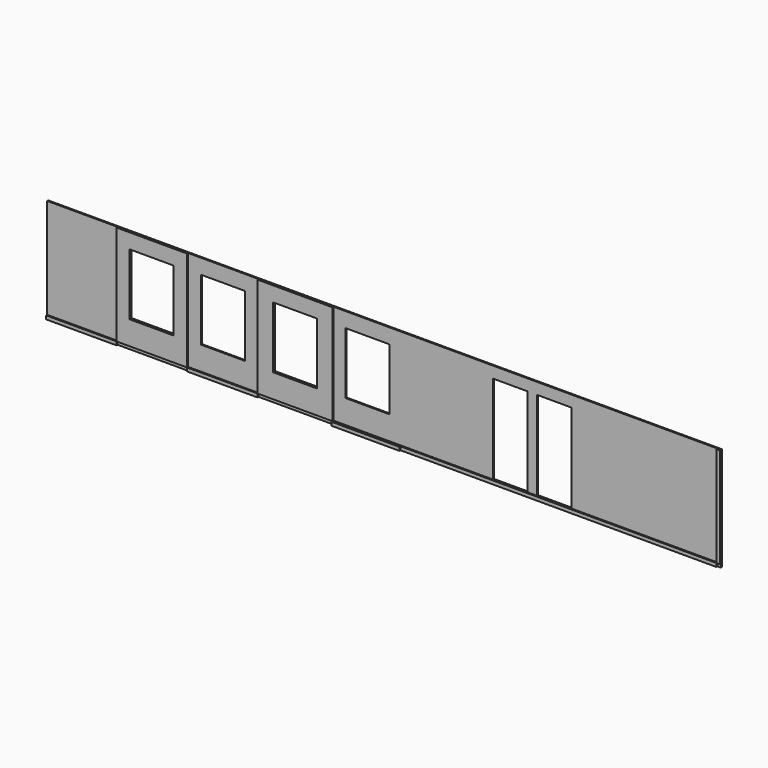
from build123d import *

# Parameters (mm, degrees)
F0_W     = 1654.4544
F0_H     = 2355.7992
F0_H_2   = 82.6008
F0_W_2   = 1036.32
F0_H_3   = 1447.8
F0_W_3   = 1764.4872
F0_W_4   = 1599.5904
F0_W_5   = 82.6008
F1_DEPTH = 30.48
F2_DEPTH = 60.96
F3_DEPTH = 91.44


with BuildPart() as f1:
    # F0 (on Front) → F1 (new body)
    with BuildSketch(Plane.XZ):
        with Locations((827.2272, 1260.5004)):
            Rectangle(F0_W, F0_H)
        with Locations((2481.6816, 41.3004)):
            Rectangle(F0_W, F0_H_2)
        with Locations((4136.136, 1260.5004)):
            Rectangle(F0_W, F0_H)
        with Locations((4136.136, 1363.98)):
            Rectangle(F0_W_2, F0_H_3, mode=Mode.SUBTRACT)
        with Locations((5845.6068, 41.3004)):
            Rectangle(F0_W_3, F0_H_2)
        with Locations((7527.6456, 1260.5004)):
            Rectangle(F0_W_4, F0_H)
        with Locations((7527.6456, 1363.98)):
            Rectangle(F0_W_2, F0_H_3, mode=Mode.SUBTRACT)
        Polygon((8327.4408, 2438.4), (8327.4408, 82.6008), (10473.8424, 82.6008), (10473.8424, 2170.4808), (11286.744, 2170.4808), (11286.744, 82.6008), (11515.344, 82.6008), (11515.344, 2170.4808), (12328.2456, 2170.4808), (12328.2456, 82.6008), (15751.7592, 82.6008), (15751.7592, 2438.4), align=None)
        with Locations((15793.0596, 41.3004)):
            Rectangle(F0_W_5, F0_H_2)
    extrude(amount=F1_DEPTH)


with BuildPart() as f2:
    # F0 (on Front) → F2 (new body)
    with BuildSketch(Plane.XZ):
        Polygon((8327.4408, 82.6008), (8327.4408, 0), (15751.7592, 0), (15751.7592, 82.6008), (12328.2456, 82.6008), (11515.344, 82.6008), (11286.744, 82.6008), (10473.8424, 82.6008), align=None)
        with Locations((15793.0596, 1260.5004)):
            Rectangle(F0_W_5, F0_H)
        with Locations((5845.6068, 1260.5004)):
            Rectangle(F0_W_3, F0_H)
        with Locations((5845.6068, 1363.98)):
            Rectangle(F0_W_2, F0_H_3, mode=Mode.SUBTRACT)
        with Locations((2481.6816, 1260.5004)):
            Rectangle(F0_W, F0_H)
        with Locations((2481.6816, 1363.98)):
            Rectangle(F0_W_2, F0_H_3, mode=Mode.SUBTRACT)
        with Locations((4136.136, 41.3004)):
            Rectangle(F0_W, F0_H_2)
        with Locations((827.2272, 41.3004)):
            Rectangle(F0_W, F0_H_2)
    extrude(amount=F2_DEPTH)


with BuildPart() as f3:
    # F0 (on Front) → F3 (new body)
    with BuildSketch(Plane.XZ):
        with Locations((7527.6456, 41.3004)):
            Rectangle(F0_W_4, F0_H_2)
    extrude(amount=F3_DEPTH)


solid = Compound([f1.part, f2.part, f3.part])
